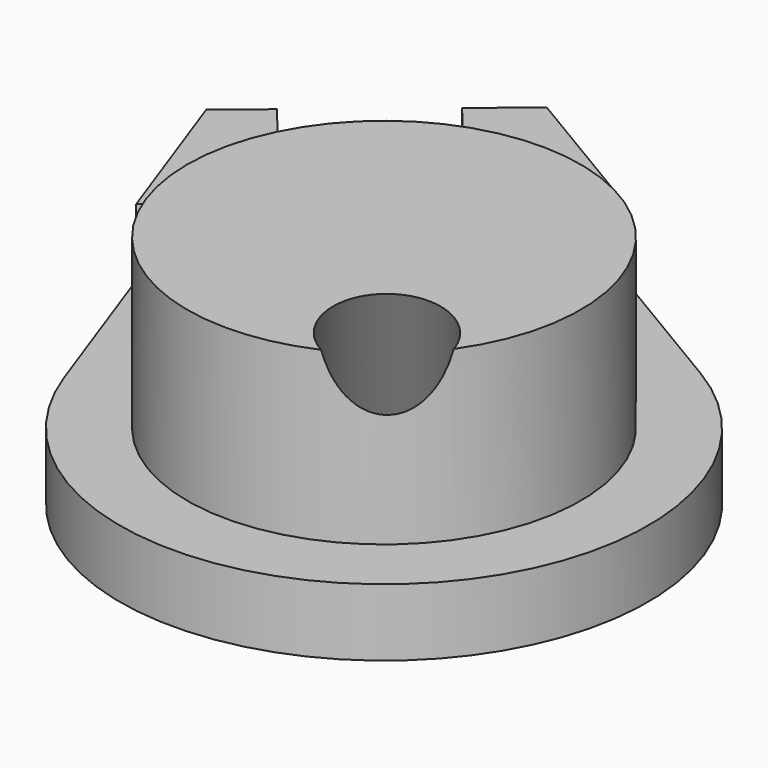
from build123d import *

# Parameters (mm, degrees)
F0_R      = 29.25
F1_DEPTH  = 25
F2_R      = 29.25
F3_DEPTH  = 10
F4_DEPTH  = 10
F9_R      = 8.5
F10_DEPTH = 152
F11_ANGLE = 180


with BuildPart() as f1:
    # F0 (on Top) → F1 (new body)
    with BuildSketch(Plane.XY):
        Circle(F0_R)
    extrude(amount=F1_DEPTH)

    # F2 (on face) → F3 (join)
    with BuildSketch(Plane.XY.offset(25)):
        with BuildLine():
            Line((28.24251, 37.508036), (11.563291, 37.508036))
            ThreePointArc((11.563291, 37.508036), (0.845642, 39.240889), (-9.936709, 37.971362))
            Line((-9.936709, 37.971362), (-28.076276, 37.971362))
            Line((-28.076276, 37.971362), (-36.944126, 13.254964))
            ThreePointArc((-36.944126, 13.254964), (0, -39.25), (36.944126, 13.254964))
            Line((36.944126, 13.254964), (28.24251, 37.508036))
        make_face()
        Circle(F2_R, mode=Mode.SUBTRACT)
        Circle(F2_R)
    extrude(amount=F3_DEPTH)

    # F2 (on face) → F4 (join, symmetric)
    with BuildSketch(Plane.XY.offset(25)):
        Polygon((11.563291, 61.137354), (11.563291, 37.508036), (28.24251, 37.508036), (19.764687, 61.137354), align=None)
        Polygon((-28.076276, 37.971362), (-9.936709, 37.971362), (-9.936709, 61.137354), (-19.764687, 61.137354), align=None)
    extrude(amount=F4_DEPTH, both=True)

    # F9 (on face) → F10 (cut)
    with BuildSketch(Plane(origin=(0, 34.499137, 59.754259), x_dir=(1, 0, 0), z_dir=(0, 0.5, 0.866025))):
        with Locations((0, -20.857124)):
            Circle(F9_R)
    extrude(amount=-F10_DEPTH, mode=Mode.SUBTRACT)


with BuildPart() as f1_1:
    # F11: moved
    add(f1.part.rotate(Axis((24.003598, 49.322695, 15), (0.337706, -0.941252, 0)), F11_ANGLE))


solid = f1_1.part
